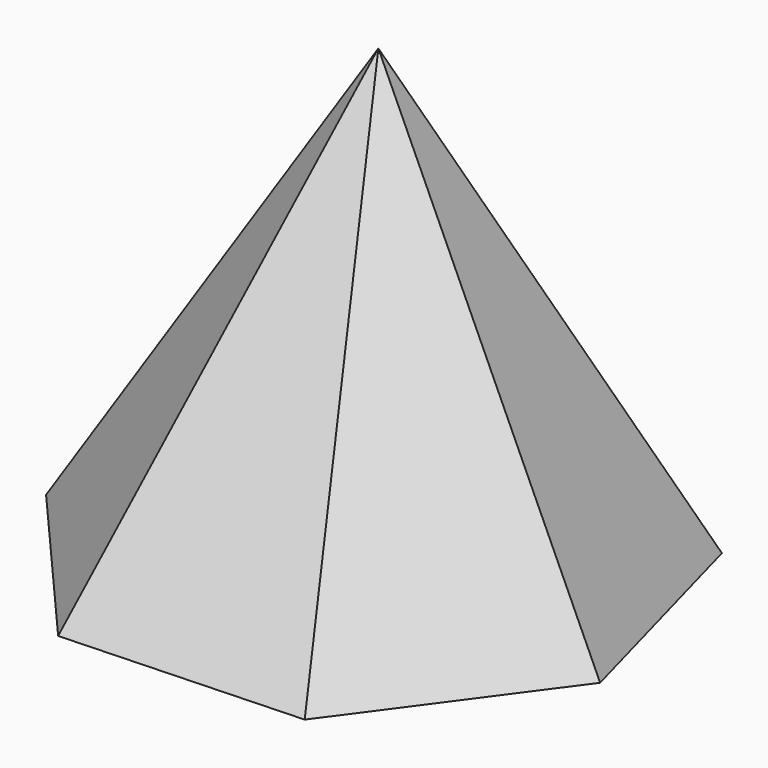
from build123d import *


with BuildPart() as f3:
    # F0 (on Top) → F3 section 0
    with BuildSketch(Plane.XY, mode=Mode.PRIVATE) as f3_s0:
        Polygon((-126.629841, 92.760399), (-151.475415, -41.168034), (-62.256911, -144.096097), (73.842316, -138.51686), (154.336773, -28.631602), (118.612492, 102.813836), (-6.429415, 156.838359), align=None)
    loft([Vertex(0, 6.261665, 254), f3_s0.sketch])


solid = f3.part
